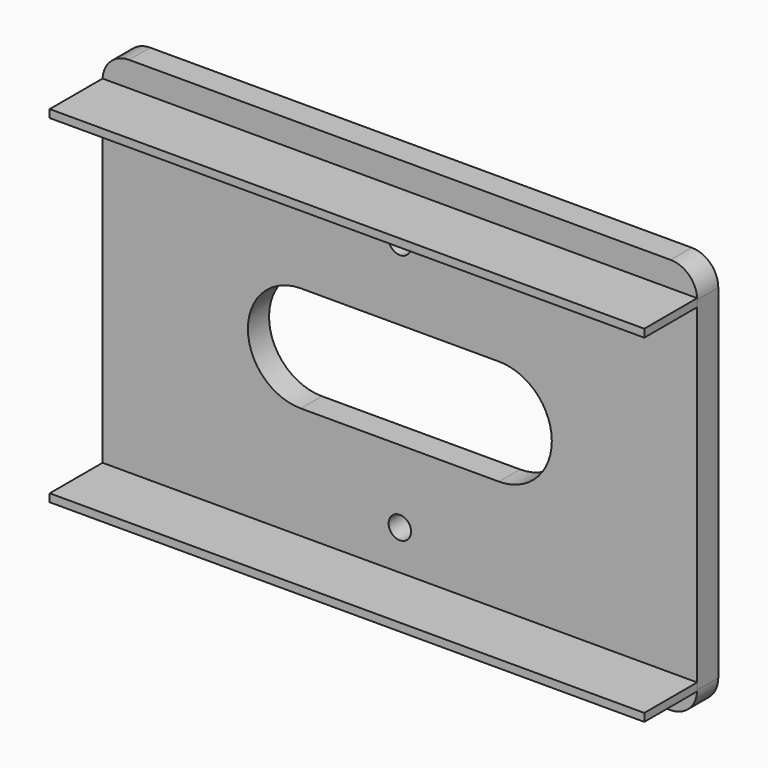
from build123d import *

# Parameters (mm, degrees)
F0_W     = 225
F0_H     = 150
F0_R     = 20
F1_DEPTH = 5
F2_R     = 10
F4_DEPTH = 10.001
F5_W     = 225
F5_H     = 3
F6_DEPTH = 25
F8_D     = 8.5
F8_DEPTH = 24.5
F8_TIP   = 2.5536576309


with BuildPart() as f1:
    # F0 (on Front) → F1 (new body, symmetric)
    with BuildSketch(Plane.XZ):
        Rectangle(F0_W, F0_H)
        Circle(F0_R, mode=Mode.SUBTRACT)
    extrude(amount=F1_DEPTH, both=True)

    # F2
    f2_edges = [f1.edges().sort_by_distance(p)[0] for p in [
        (-112.5, 0, 75),
        (112.5, 0, 75),
        (112.5, 0, -75),
        (-112.5, 0, -75),
    ]]
    fillet(f2_edges, radius=F2_R)

    # F3 (on face) → F4 (cut, through all)
    with BuildSketch(Plane.XZ.offset(5)):
        with BuildLine():
            ThreePointArc((-37.5, 20), (-57.5, 0), (-37.5, -20))
            Line((-37.5, -20), (37.5, -20))
            ThreePointArc((37.5, -20), (57.5, 0), (37.5, 20))
            Line((37.5, 20), (-37.5, 20))
        make_face()
    extrude(amount=-F4_DEPTH, mode=Mode.SUBTRACT)

    # F8
    with Locations(Plane.XZ.offset(5)):
        with Locations((0, 47.5), (0, -47.5)):
            Hole(F8_D / 2, depth=F8_DEPTH)
            with Locations((0, 0, -(F8_DEPTH + F8_TIP / 2))):  # 118° drill point
                Cone(0, F8_D / 2, F8_TIP, mode=Mode.SUBTRACT)


with BuildPart() as f6:
    # F5 (on face) → F6 (new body)
    with BuildSketch(Plane.XZ.offset(5)):
        with Locations((0, 64)):
            Rectangle(F5_W, F5_H)
    extrude(amount=F6_DEPTH)


with BuildPart() as f6b:
    # F5 (on face) → F6, piece 2 (new body)
    with BuildSketch(Plane.XZ.offset(5)):
        with Locations((0, -64)):
            Rectangle(F5_W, F5_H)
    extrude(amount=F6_DEPTH)


solid = Compound([f1.part, f6.part, f6b.part])
